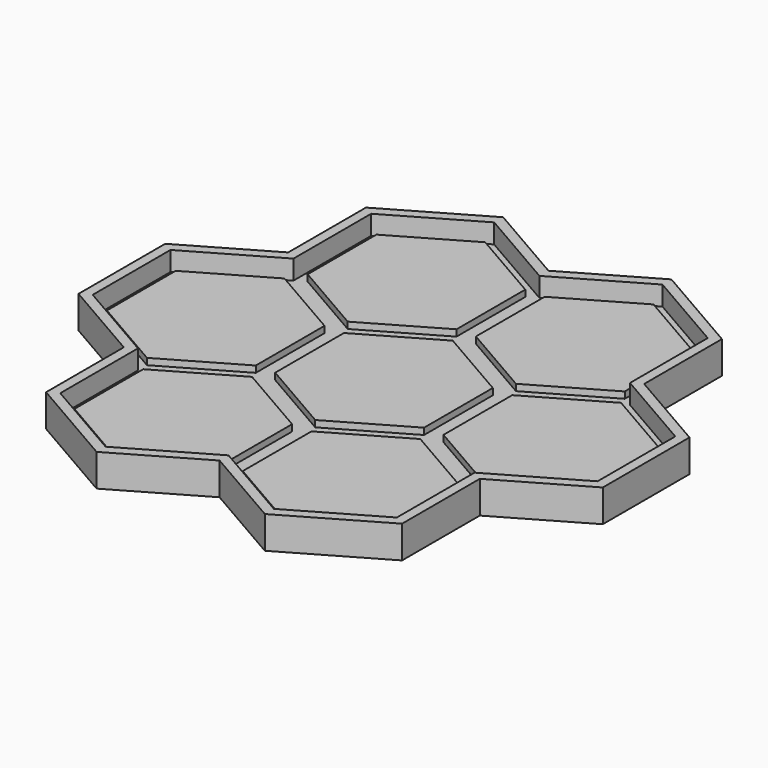
from build123d import *

# Parameters (mm, degrees)
F1_DEPTH = 2
F2_DEPTH = 1
F3_DEPTH = 3


with BuildPart() as f1:
    # F0 (on Top) → F1 (new body)
    with BuildSketch(Plane.XY):
        Polygon((-40.5, -8.371579), (-27.5, -15.877132), (-27.5, -30.888239), (-13, -39.259818), (0, -31.754265), (13, -39.259818), (27.5, -30.888239), (27.5, -15.877132), (40.5, -8.371579), (40.5, 8.371579), (27.5, 15.877132), (27.5, 30.888239), (13, 39.259818), (0, 31.754265), (-13, 39.259818), (-27.5, 30.888239), (-27.5, 15.877132), (-40.5, 8.371579), align=None)
        Polygon((-39, -7.505553), (-39, 7.505553), (-26, 15.011107), (-26, 30.022214), (-13, 37.527767), (0, 30.022214), (13, 37.527767), (26, 30.022214), (26, 15.011107), (39, 7.505553), (39, -7.505553), (26, -15.011107), (26, -30.022214), (13, -37.527767), (0, -30.022214), (-13, -37.527767), (-26, -30.022214), (-26, -15.011107), align=None, mode=Mode.SUBTRACT)
        Polygon((-26, 15.011107), (-39, 7.505553), (-39, -7.505553), (-26, -15.011107), (-26, -30.022214), (-13, -37.527767), (0, -30.022214), (13, -37.527767), (26, -30.022214), (26, -15.011107), (39, -7.505553), (39, 7.505553), (26, 15.011107), (26, 30.022214), (13, 37.527767), (0, 30.022214), (-13, 37.527767), (-26, 30.022214), align=None)
        Polygon((-13, -35.795717), (-24.5, -29.156189), (-24.5, -15.877132), (-13, -9.237604), (-1.5, -15.877132), (-1.5, -29.156189), align=None, mode=Mode.SUBTRACT)
        Polygon((-26, -13.279056), (-37.5, -6.639528), (-37.5, 6.639528), (-26, 13.279056), (-14.5, 6.639528), (-14.5, -6.639528), align=None, mode=Mode.SUBTRACT)
        Polygon((13, -9.237604), (24.5, -15.877132), (24.5, -29.156189), (13, -35.795717), (1.5, -29.156189), (1.5, -15.877132), align=None, mode=Mode.SUBTRACT)
        Polygon((0, 13.279056), (11.5, 6.639528), (11.5, -6.639528), (0, -13.279056), (-11.5, -6.639528), (-11.5, 6.639528), align=None, mode=Mode.SUBTRACT)
        Polygon((26, 13.279056), (37.5, 6.639528), (37.5, -6.639528), (26, -13.279056), (14.5, -6.639528), (14.5, 6.639528), align=None, mode=Mode.SUBTRACT)
        Polygon((-13, 35.795717), (-1.5, 29.156189), (-1.5, 15.877132), (-13, 9.237604), (-24.5, 15.877132), (-24.5, 29.156189), align=None, mode=Mode.SUBTRACT)
        Polygon((13, 35.795717), (24.5, 29.156189), (24.5, 15.877132), (13, 9.237604), (1.5, 15.877132), (1.5, 29.156189), align=None, mode=Mode.SUBTRACT)
        Polygon((-37.5, 6.639528), (-37.5, -6.639528), (-26, -13.279056), (-14.5, -6.639528), (-14.5, 6.639528), (-26, 13.279056), align=None)
        Polygon((-1.5, 15.877132), (-1.5, 29.156189), (-13, 35.795717), (-24.5, 29.156189), (-24.5, 15.877132), (-13, 9.237604), align=None)
        Polygon((24.5, 15.877132), (24.5, 29.156189), (13, 35.795717), (1.5, 29.156189), (1.5, 15.877132), (13, 9.237604), align=None)
        Polygon((24.5, -29.156189), (24.5, -15.877132), (13, -9.237604), (1.5, -15.877132), (1.5, -29.156189), (13, -35.795717), align=None)
        Polygon((-24.5, -15.877132), (-24.5, -29.156189), (-13, -35.795717), (-1.5, -29.156189), (-1.5, -15.877132), (-13, -9.237604), align=None)
        Polygon((11.5, -6.639528), (11.5, 6.639528), (0, 13.279056), (-11.5, 6.639528), (-11.5, -6.639528), (0, -13.279056), align=None)
        Polygon((37.5, -6.639528), (37.5, 6.639528), (26, 13.279056), (14.5, 6.639528), (14.5, -6.639528), (26, -13.279056), align=None)
    extrude(amount=-F1_DEPTH)

    # F0 (on Top) → F2 (join)
    with BuildSketch(Plane.XY):
        Polygon((-37.5, 6.639528), (-37.5, -6.639528), (-26, -13.279056), (-14.5, -6.639528), (-14.5, 6.639528), (-26, 13.279056), align=None)
        Polygon((-1.5, 15.877132), (-1.5, 29.156189), (-13, 35.795717), (-24.5, 29.156189), (-24.5, 15.877132), (-13, 9.237604), align=None)
        Polygon((24.5, 15.877132), (24.5, 29.156189), (13, 35.795717), (1.5, 29.156189), (1.5, 15.877132), (13, 9.237604), align=None)
        Polygon((37.5, -6.639528), (37.5, 6.639528), (26, 13.279056), (14.5, 6.639528), (14.5, -6.639528), (26, -13.279056), align=None)
        Polygon((24.5, -29.156189), (24.5, -15.877132), (13, -9.237604), (1.5, -15.877132), (1.5, -29.156189), (13, -35.795717), align=None)
        Polygon((-24.5, -15.877132), (-24.5, -29.156189), (-13, -35.795717), (-1.5, -29.156189), (-1.5, -15.877132), (-13, -9.237604), align=None)
        Polygon((11.5, -6.639528), (11.5, 6.639528), (0, 13.279056), (-11.5, 6.639528), (-11.5, -6.639528), (0, -13.279056), align=None)
    extrude(amount=F2_DEPTH)

    # F0 (on Top) → F3 (join)
    with BuildSketch(Plane.XY):
        Polygon((-40.5, -8.371579), (-27.5, -15.877132), (-27.5, -30.888239), (-13, -39.259818), (0, -31.754265), (13, -39.259818), (27.5, -30.888239), (27.5, -15.877132), (40.5, -8.371579), (40.5, 8.371579), (27.5, 15.877132), (27.5, 30.888239), (13, 39.259818), (0, 31.754265), (-13, 39.259818), (-27.5, 30.888239), (-27.5, 15.877132), (-40.5, 8.371579), align=None)
        Polygon((-39, -7.505553), (-39, 7.505553), (-26, 15.011107), (-26, 30.022214), (-13, 37.527767), (0, 30.022214), (13, 37.527767), (26, 30.022214), (26, 15.011107), (39, 7.505553), (39, -7.505553), (26, -15.011107), (26, -30.022214), (13, -37.527767), (0, -30.022214), (-13, -37.527767), (-26, -30.022214), (-26, -15.011107), align=None, mode=Mode.SUBTRACT)
    extrude(amount=F3_DEPTH)


solid = f1.part
